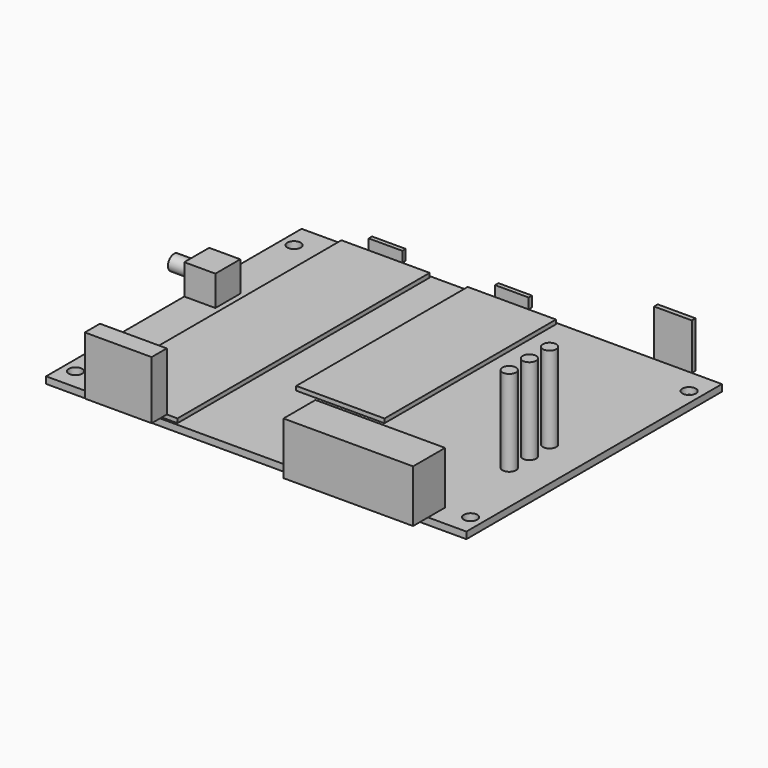
from build123d import *

# Parameters (mm, degrees)
SKETCH_W     = 100
SKETCH_H     = 76
SKETCH_R     = 1.6
PAD_DEPTH    = 1.6
SKETCH001_W  = 21
SKETCH001_H  = 75
PAD001_DEPTH = 1
SKETCH002_W  = 15.9
SKETCH002_H  = 4.5
PAD002_DEPTH = 13.85
SKETCH003_W  = 8
SKETCH003_H  = 1
PAD003_DEPTH = 2.5
SKETCH004_W  = 30.84
SKETCH004_H  = 9.52
PAD004_DEPTH = 12.5
SKETCH005_W  = 21
SKETCH005_H  = 51
PAD005_DEPTH = 1
SKETCH006_W  = 8
SKETCH006_H  = 1
PAD006_DEPTH = 2.5
SKETCH007_W  = 9
SKETCH007_H  = 1.1
PAD007_DEPTH = 11
SKETCH008_W  = 7.4
SKETCH008_H  = 7.4
PAD008_DEPTH = 7.2
SKETCH009_R  = 1.8
PAD009_DEPTH = 5.4
SKETCH010_R  = 1.6
PAD010_DEPTH = 20.5


with BuildPart() as part:
    # Sketch → Pad (new body)
    with BuildSketch(Plane.XY):
        Rectangle(SKETCH_W, SKETCH_H)
        with Locations((-47, 32)):
            Circle(SKETCH_R, mode=Mode.SUBTRACT)
        with Locations((47, 32)):
            Circle(SKETCH_R, mode=Mode.SUBTRACT)
        with Locations((-47, -33)):
            Circle(SKETCH_R, mode=Mode.SUBTRACT)
        with Locations((47, -33)):
            Circle(SKETCH_R, mode=Mode.SUBTRACT)
    extrude(amount=PAD_DEPTH)

    # Sketch001 → Pad001 (join)
    with BuildSketch(Plane.XY.offset(1.6)):
        with Locations((-29.65, 0.02)):
            Rectangle(SKETCH001_W, SKETCH001_H)
    extrude(amount=PAD001_DEPTH)

    # Sketch002 → Pad002 (join)
    with BuildSketch(Plane.XY.offset(2.59)):
        with Locations((-29.65, -39.73)):
            Rectangle(SKETCH002_W, SKETCH002_H)
    extrude(amount=PAD002_DEPTH)

    # Sketch003 → Pad003 (join)
    with BuildSketch(Plane.XY.offset(2.599)):
        with Locations((-29.65, 38.02)):
            Rectangle(SKETCH003_W, SKETCH003_H)
    extrude(amount=PAD003_DEPTH)

    # Sketch004 → Pad004 (join)
    with BuildSketch(Plane.XY.offset(1.6)):
        with Locations((25.46, -37.69)):
            Rectangle(SKETCH004_W, SKETCH004_H)
    extrude(amount=PAD004_DEPTH)

    # Sketch005 → Pad005 (join)
    with BuildSketch(Plane.XY.offset(1.6)):
        with Locations((0.4, 12.02)):
            Rectangle(SKETCH005_W, SKETCH005_H)
    extrude(amount=PAD005_DEPTH)

    # Sketch006 → Pad006 (join)
    with BuildSketch(Plane.XY.offset(2.599)):
        with Locations((0.4, 38.02)):
            Rectangle(SKETCH006_W, SKETCH006_H)
    extrude(amount=PAD006_DEPTH)

    # Sketch007 → Pad007 (join)
    with BuildSketch(Plane.XY.offset(1.599)):
        with Locations((38.35, 38.55)):
            Rectangle(SKETCH007_W, SKETCH007_H)
    extrude(amount=PAD007_DEPTH)

    # Sketch008 → Pad008 (join)
    with BuildSketch(Plane.XY.offset(1.6)):
        with Locations((-46.3, 6.8)):
            Rectangle(SKETCH008_W, SKETCH008_H)
    extrude(amount=PAD008_DEPTH)

    # Sketch009 → Pad009 (join)
    with BuildSketch(Plane.YZ.offset(-50)):
        with Locations((6.8, 5.5)):
            Circle(SKETCH009_R)
    extrude(amount=-PAD009_DEPTH)

    # Sketch010 → Pad010 (join)
    with BuildSketch(Plane.XY.offset(1.6)):
        with Locations((40.2, -1)):
            Circle(SKETCH010_R)
        with Locations((40.2, -7)):
            Circle(SKETCH010_R)
        with Locations((40.2, -13)):
            Circle(SKETCH010_R)
    extrude(amount=PAD010_DEPTH)


solid = part.part
